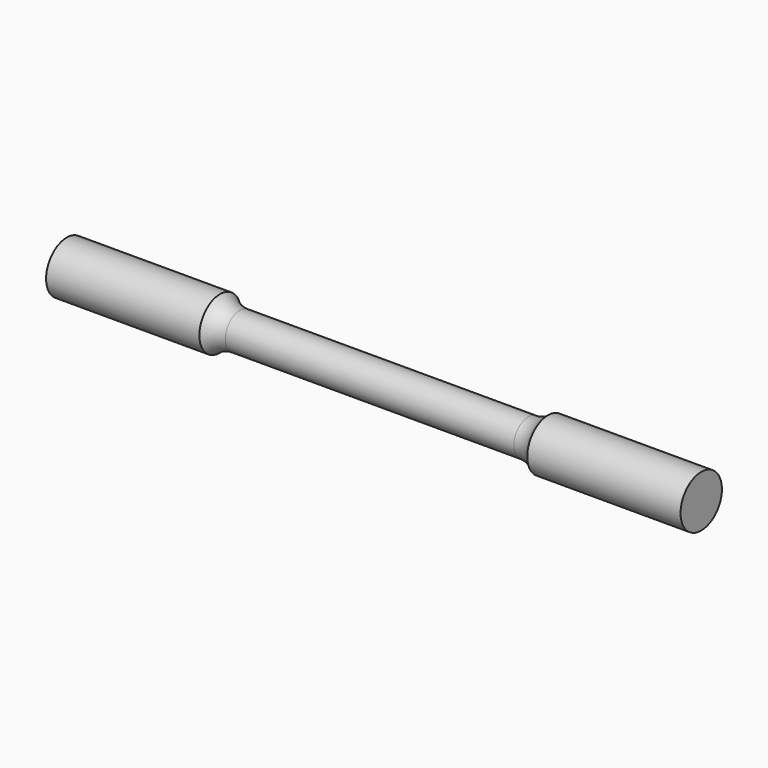
from build123d import *


with BuildPart() as f1:
    # F0 (on Front) → F1 (revolve)
    with BuildSketch(Plane.XZ):
        with BuildLine():
            Line((10, 1.25), (0, 1.25))
            Line((0, 1.25), (-10, 1.25))
            ThreePointArc((-10, 1.25), (-10.737251, 1.390844), (-11.370665, 1.793539))
            Line((-11.370665, 1.793539), (-21.999996, 1.793539))
            Line((-21.999996, 1.793539), (-21.999996, 0))
            Line((-21.999996, 0), (0, 0))
            Line((0, 0), (21.999996, 0))
            Line((21.999996, 0), (21.999996, 1.793539))
            Line((21.999996, 1.793539), (11.370665, 1.793539))
            ThreePointArc((11.370665, 1.793539), (10.737251, 1.390844), (10, 1.25))
        make_face()
    revolve(axis=Axis((-10.999998, 0, 0), (1, 0, 0)))


solid = f1.part
